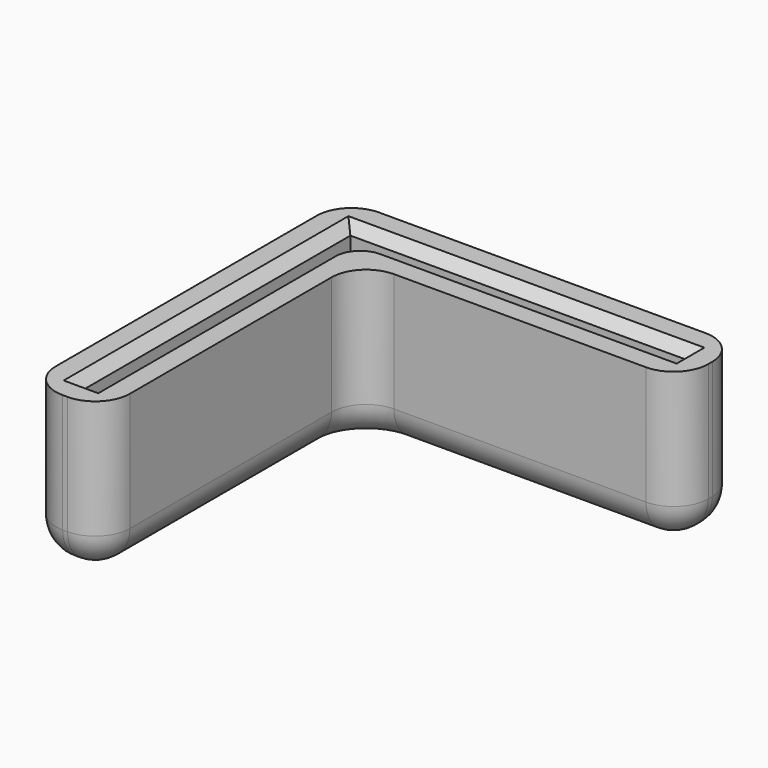
from build123d import *

# Parameters (mm, degrees)
F1_DEPTH = 8
F2_DEPTH = 7.5
F3_R     = 3.5
F4_SIZE  = 1


with BuildPart() as f1:
    # F0 (on Top) → F1 (new body)
    with BuildSketch(Plane.XY):
        Polygon((4.5, -37), (4.5, -4.5), (37, -4.5), (37, 3), (-3, 3), (-3, -37), align=None)
        Polygon((34, -1.5), (1.5, -1.5), (1.5, -34), (0, -34), (0, -1.5), (0, 0), (1.5, 0), (34, 0), align=None, mode=Mode.SUBTRACT)
    extrude(amount=F1_DEPTH)

    # F0 (on Top) → F2 (join)
    with BuildSketch(Plane.XY):
        Polygon((4.5, -37), (4.5, -4.5), (37, -4.5), (37, 3), (-3, 3), (-3, -37), align=None)
        Polygon((34, -1.5), (1.5, -1.5), (1.5, -34), (0, -34), (0, -1.5), (0, 0), (1.5, 0), (34, 0), align=None, mode=Mode.SUBTRACT)
        Polygon((1.5, -34), (1.5, -1.5), (34, -1.5), (34, 0), (1.5, 0), (0, 0), (0, -1.5), (0, -34), align=None)
    extrude(amount=-F2_DEPTH)

    # F3
    f3_edges = [f1.edges().sort_by_distance(p)[0] for p in [
        (20.75, -4.5, -7.5),
        (4.5, -20.75, -7.5),
        (17, 3, -7.5),
        (-3, -17, -7.5),
        (4.5, -4.5, 0.25),
        (-3, 3, 0.25),
        (0.75, -37, -7.5),
        (37, -0.75, -7.5),
        (4.5, -37, 0.25),
        (-3, -37, 0.25),
        (37, -4.5, 0.25),
        (37, 3, 0.25),
        (1.5, -1.5, 4),
    ]]
    fillet(f3_edges, radius=F3_R)

    # F4
    f4_edges = [f1.edges().sort_by_distance(p)[0] for p in [
        (0, -17, 8),
        (2.525126, -2.525126, 8),
        (17, 0, 8),
        (0.75, -34, 8),
        (34, -0.75, 8),
    ]]
    chamfer(f4_edges, length=F4_SIZE)


solid = f1.part
